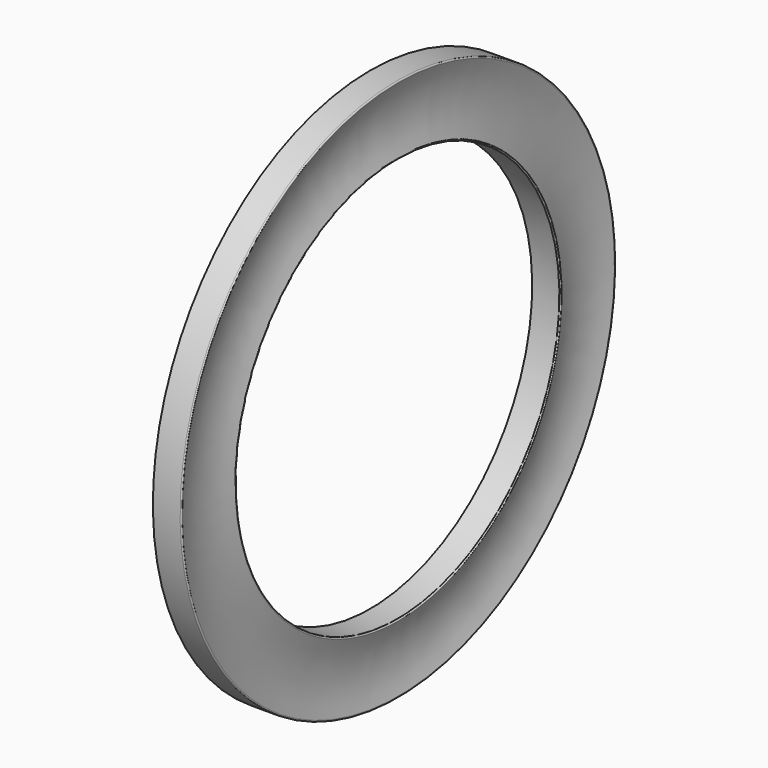
from build123d import *


with BuildPart() as f1:
    # F0 (on Front) → F1 (revolve)
    with BuildSketch(Plane.XZ):
        with BuildLine():
            ThreePointArc((-0.036947, 18.199052), (-0.04654, 18.268473), (-0.108772, 18.3007))
            Line((-0.108772, 18.3007), (-1.943022, 18.3007))
            Line((-1.943022, 18.3007), (-1.943022, 13.6525))
            Line((-1.943022, 13.6525), (-0.108772, 13.6525))
            ThreePointArc((-0.108772, 13.6525), (-0.04654, 13.684727), (-0.036947, 13.754148))
            ThreePointArc((-0.036947, 13.754148), (-0.419022, 15.9766), (-0.036947, 18.199052))
        make_face()
    revolve(axis=Axis((-3.079263, 0, 0), (-1, 0, 0)))


solid = f1.part
